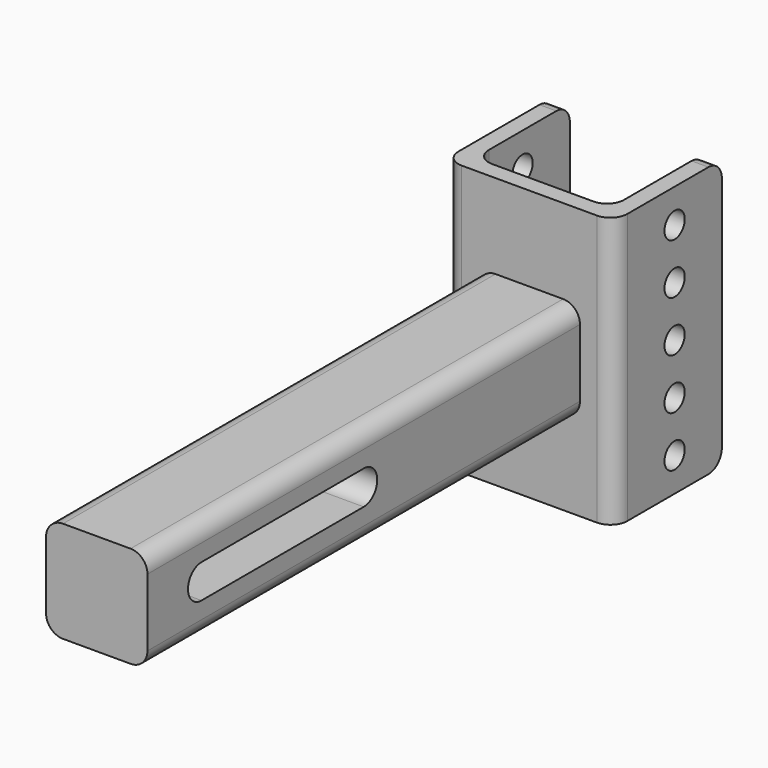
from build123d import *

# Parameters (mm, degrees)
F1_DEPTH  = 203.2
F3_DEPTH  = 38.1
F5_DEPTH  = 50.8
F6_DEPTH  = 50.8
F7_R      = 4.7625
F8_DEPTH  = 63.5
F9_R      = 6.35
F10_R     = 6.35
F11_DEPTH = 25.4


with BuildPart() as f1:
    # F0 (on Front) → F1 (new body)
    with BuildSketch(Plane.XZ):
        with BuildLine():
            Line((-12.7, -19.05), (12.7, -19.05))
            ThreePointArc((12.7, -19.05), (17.1901280605, -17.1901280605), (19.05, -12.7))
            Line((19.05, -12.7), (19.05, 12.7))
            ThreePointArc((19.05, 12.7), (17.1901280605, 17.1901280605), (12.7, 19.05))
            Line((12.7, 19.05), (-12.7, 19.05))
            ThreePointArc((-12.7, 19.05), (-17.1901280605, 17.1901280605), (-19.05, 12.7))
            Line((-19.05, 12.7), (-19.05, -12.7))
            ThreePointArc((-19.05, -12.7), (-17.1901280605, -17.1901280605), (-12.7, -19.05))
        make_face()
    extrude(amount=F1_DEPTH)

    # F2 (on face) → F3 (cut)
    with BuildSketch(Plane.YZ.offset(19.05)):
        with BuildLine():
            Line((-177.8, -6.35), (-101.6, -6.35))
            ThreePointArc((-101.6, -6.35), (-95.25, 0), (-101.6, 6.35))
            Line((-101.6, 6.35), (-177.8, 6.35))
            ThreePointArc((-177.8, 6.35), (-184.15, 0), (-177.8, -6.35))
        make_face()
    extrude(amount=-F3_DEPTH, mode=Mode.SUBTRACT)

    # F4 (on Top) → F5 (join)
    with BuildSketch(Plane.XY):
        with BuildLine():
            ThreePointArc((-31.75, 6.35), (-29.8901280605, 1.8598719395), (-25.4, 0))
            Line((-25.4, 0), (25.4, 0))
            ThreePointArc((25.4, 0), (29.8901280605, 1.8598719395), (31.75, 6.35))
            Line((31.75, 6.35), (31.75, 50.8))
            Line((31.75, 50.8), (25.4, 50.8))
            Line((25.4, 50.8), (25.4, 12.7))
            ThreePointArc((25.4, 12.7), (23.5401280605, 8.2098719395), (19.05, 6.35))
            Line((19.05, 6.35), (-19.05, 6.35))
            ThreePointArc((-19.05, 6.35), (-23.5401280605, 8.2098719395), (-25.4, 12.7))
            Line((-25.4, 12.7), (-25.4, 50.8))
            Line((-25.4, 50.8), (-31.75, 50.8))
            Line((-31.75, 50.8), (-31.75, 6.35))
        make_face()
    extrude(amount=F5_DEPTH)

    # F6 (add): a face of the model
    f6_faces = [f1.faces().sort_by_distance(p)[0] for p in [
        (-26.2131967782, 31.75, 0),
    ]]
    extrude(f6_faces, amount=F6_DEPTH)

    # F7 (on face) → F8 (cut)
    with BuildSketch(Plane.YZ.offset(31.75)):
        with Locations((28.575, 38.1)):
            Circle(F7_R)
        with Locations((28.575, 19.05)):
            Circle(F7_R)
        with Locations((28.575, 0)):
            Circle(F7_R)
        with Locations((28.575, -19.05)):
            Circle(F7_R)
        with Locations((28.575, -38.1)):
            Circle(F7_R)
    extrude(amount=-F8_DEPTH, mode=Mode.SUBTRACT)

    # F9
    f9_edges = [f1.edges().sort_by_distance(p)[0] for p in [
        (28.575, 50.8, 50.8),
        (-28.575, 50.8, 50.8),
        (-28.575, 50.8, -50.8),
        (28.575, 50.8, -50.8),
    ]]
    fillet(f9_edges, radius=F9_R)

    # F10 (on face) → F11 (cut)
    with BuildSketch(Plane(origin=(0, 0, -19.05), x_dir=(1, 0, 0), z_dir=(0, 0, -1))):
        with Locations((0, 19.05)):
            Circle(F10_R)
    extrude(amount=-F11_DEPTH, mode=Mode.SUBTRACT)


solid = f1.part
